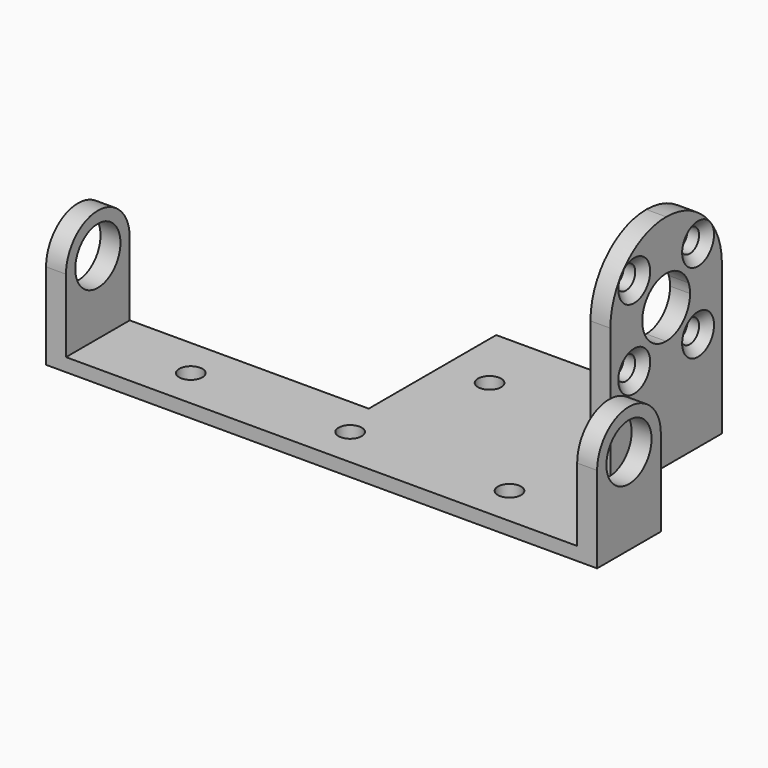
from build123d import *

# Parameters (mm, degrees)
F0_R            = 1.75
F1_DEPTH        = 2
F3_R            = 4.25
F4_DEPTH        = 3
F5_R            = 4.25
F6_DEPTH        = 3
F9_DEPTH        = 3
F10_D           = 3.5
F10_CSINK_D     = 6
F10_CSINK_ANGLE = 90


with BuildPart() as f1:
    # F0 (on Top) → F1 (new body)
    with BuildSketch(Plane.XY):
        Polygon((0, 12), (0, 0), (83, 0), (83, 12), (73, 12), (73, 36), (39, 36), (39, 12), align=None)
        with Locations((17, 6)):
            Circle(F0_R, mode=Mode.SUBTRACT)
        with Locations((41, 6)):
            Circle(F0_R, mode=Mode.SUBTRACT)
        with Locations((65, 6)):
            Circle(F0_R, mode=Mode.SUBTRACT)
        with Locations((46, 26)):
            Circle(F0_R, mode=Mode.SUBTRACT)
        with Locations((64, 26)):
            Circle(F0_R, mode=Mode.SUBTRACT)
    extrude(amount=F1_DEPTH)

    # F3 (on Right) → F4 (join)
    with BuildSketch(Plane.YZ):
        with BuildLine():
            Line((0, 13), (0, 0))
            Line((0, 0), (12, 0))
            Line((12, 0), (12, 13))
            ThreePointArc((12, 13), (6, 19), (0, 13))
        make_face()
        with Locations((6, 13)):
            Circle(F3_R, mode=Mode.SUBTRACT)
    extrude(amount=F4_DEPTH)

    # F5 (on offset) → F6 (join)
    with BuildSketch(Plane.YZ.offset(83)):
        with BuildLine():
            Line((0, 13), (0, 0))
            Line((0, 0), (12, 0))
            Line((12, 0), (12, 13))
            ThreePointArc((12, 13), (6, 19), (0, 13))
        make_face()
        with Locations((6, 13)):
            Circle(F5_R, mode=Mode.SUBTRACT)
    extrude(amount=-F6_DEPTH)

    # F8 (on offset) → F9 (join)
    with BuildSketch(Plane.YZ.offset(73)):
        with BuildLine():
            Line((15, 22.5), (15, 0))
            Line((15, 0), (36, 0))
            Line((36, 0), (36, 22.5))
            Line((36, 22.5), (29.742641, 22.5))
            ThreePointArc((29.742641, 22.5), (29.935194, 21.760959), (30, 21))
            ThreePointArc((30, 21), (28.681981, 17.818019), (25.5, 16.5))
            ThreePointArc((25.5, 16.5), (22.318019, 17.818019), (21, 21))
            ThreePointArc((21, 21), (21.064806, 21.760959), (21.257359, 22.5))
            Line((21.257359, 22.5), (15, 22.5))
        make_face()
        with BuildLine():
            ThreePointArc((25.5, 33), (18.075379, 29.924621), (15, 22.5))
            Line((15, 22.5), (21.257359, 22.5))
            ThreePointArc((21.257359, 22.5), (21.693622, 23.400309), (22.318019, 24.181981))
            ThreePointArc((22.318019, 24.181981), (23.777925, 25.157458), (25.5, 25.5))
            Line((25.5, 25.5), (25.5, 33))
        make_face()
        with BuildLine():
            Line((29.742641, 22.5), (36, 22.5))
            ThreePointArc((36, 22.5), (32.924621, 29.924621), (25.5, 33))
            Line((25.5, 33), (25.5, 25.5))
            ThreePointArc((25.5, 25.5), (28.098076, 24.674235), (29.742641, 22.5))
        make_face()
    extrude(amount=-F9_DEPTH)

    # F10 (through all)
    with Locations(Plane.YZ.offset(73)):
        with Locations((31.510408, 14.989592), (19.489592, 14.989592), (19.489592, 27.010408), (31.510408, 27.010408)):
            CounterSinkHole(F10_D / 2, F10_CSINK_D / 2, counter_sink_angle=F10_CSINK_ANGLE)


solid = f1.part
